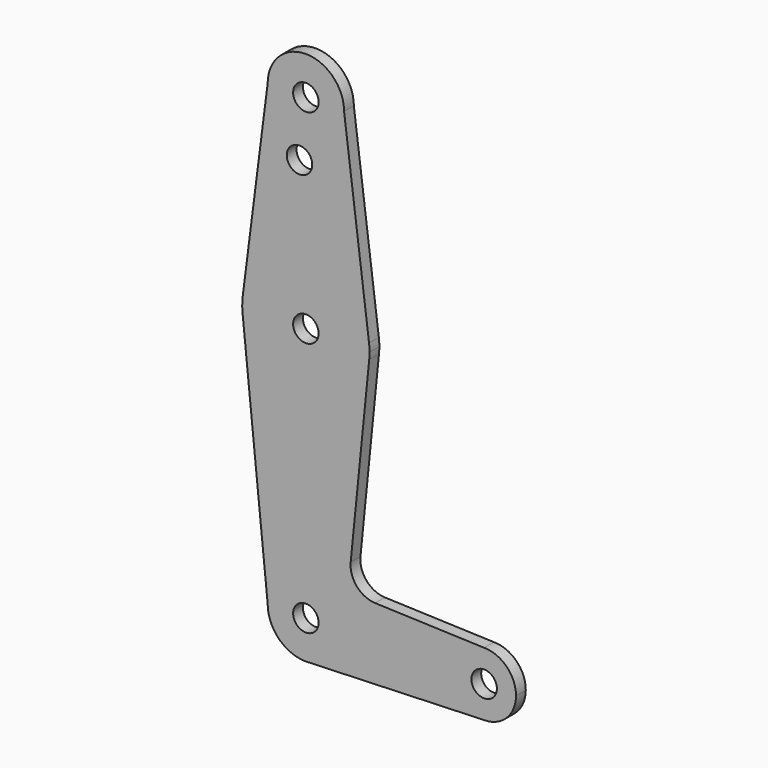
from build123d import *

# Parameters (mm, degrees)
F0_R     = 3.175
F1_DEPTH = 3.048


with BuildPart() as f1:
    # F0 (on Front) → F1 (new body)
    with BuildSketch(Plane.XZ):
        with BuildLine():
            ThreePointArc((-9.525, 114.3), (0, 104.775), (9.525, 114.3))
            ThreePointArc((9.525, 114.3), (0, 123.825), (-9.525, 114.3))
        make_face()
        with Locations((0, 114.3)):
            Circle(F0_R, mode=Mode.SUBTRACT)
        with BuildLine():
            Line((15.747457, 65.508289), (9.525, 114.3))
            ThreePointArc((9.525, 114.3), (0, 104.775), (-9.525, 114.3))
            Line((-9.525, 114.3), (-15.747457, 65.508289))
            ThreePointArc((-15.747457, 65.508289), (0, 79.375), (15.747457, 65.508289))
        make_face()
        with Locations((-1.5875, 100.0252)):
            Circle(F0_R, mode=Mode.SUBTRACT)
        with BuildLine():
            ThreePointArc((15.875, 63.5), (15.843082, 64.506168), (15.747457, 65.508289))
            ThreePointArc((15.747457, 65.508289), (0, 79.375), (-15.747457, 65.508289))
            ThreePointArc((-15.747457, 65.508289), (-15.873668, 63.705667), (-15.794203, 61.90038))
            ThreePointArc((-15.794203, 61.90038), (0, 47.625), (15.794203, 61.90038))
            ThreePointArc((15.794203, 61.90038), (15.854788, 62.699171), (15.875, 63.5))
        make_face()
        with Locations((0, 63.5)):
            Circle(F0_R, mode=Mode.SUBTRACT)
        with BuildLine():
            ThreePointArc((15.794203, 61.90038), (0, 47.625), (-15.794203, 61.90038))
            Line((-15.794203, 61.90038), (-9.525, 0))
            ThreePointArc((-9.525, 0), (0, 9.525), (9.525, 0))
            ThreePointArc((9.525, 0), (6.97129, -6.490511), (0.67949, -9.500732))
            Line((0.67949, -9.500732), (44.45, -7.9375))
            ThreePointArc((44.45, -7.9375), (36.5125, 0), (44.45, 7.9375))
            Line((44.45, 7.9375), (17.261465, 8.908519))
            ThreePointArc((17.261465, 8.908519), (12.703541, 11.079496), (11.169936, 15.889473))
            Line((11.169936, 15.889473), (15.794203, 61.90038))
        make_face()
        with BuildLine():
            ThreePointArc((9.525, 0), (0, 9.525), (-9.525, 0))
            ThreePointArc((-9.525, 0), (-6.735192, -6.735192), (0, -9.525))
            Line((0, -9.525), (0.67949, -9.500732))
            ThreePointArc((0.67949, -9.500732), (6.97129, -6.490511), (9.525, 0))
        make_face()
        Circle(F0_R, mode=Mode.SUBTRACT)
        with BuildLine():
            Line((0.67949, -9.500732), (0, -9.525))
            ThreePointArc((0, -9.525), (0.339962, -9.518931), (0.67949, -9.500732))
        make_face()
        with BuildLine():
            ThreePointArc((52.3875, 0), (50.06266, 5.61266), (44.45, 7.9375))
            ThreePointArc((44.45, 7.9375), (36.5125, 0), (44.45, -7.9375))
            ThreePointArc((44.45, -7.9375), (50.06266, -5.61266), (52.3875, 0))
        make_face()
        with Locations((44.45, 0)):
            Circle(F0_R, mode=Mode.SUBTRACT)
    extrude(amount=F1_DEPTH)


solid = f1.part
